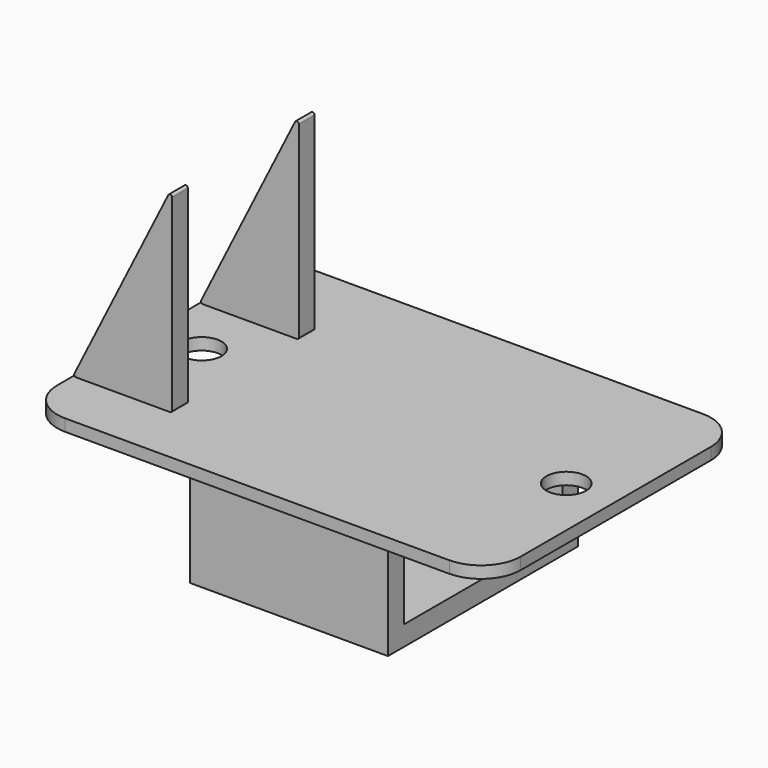
from build123d import *

# Parameters (mm, degrees)
F0_R     = 5
F1_DEPTH = 3
F3_DEPTH = 50
F5_R     = 5
F5_R_2   = 2.5
F6_DEPTH = 25
F8_DEPTH = 5


with BuildPart() as f1:
    # F0 (on Top) → F1 (new body)
    with BuildSketch(Plane.XY):
        with BuildLine():
            ThreePointArc((0, 10), (2.928932, 2.928932), (10, 0))
            Line((10, 0), (107, 0))
            ThreePointArc((107, 0), (114.071068, 2.928932), (117, 10))
            Line((117, 10), (117, 70))
            ThreePointArc((117, 70), (114.071068, 77.071068), (107, 80))
            Line((107, 80), (10, 80))
            ThreePointArc((10, 80), (2.928932, 77.071068), (0, 70))
            Line((0, 70), (0, 10))
        make_face()
        with Locations((12.5, 40)):
            Circle(F0_R, mode=Mode.SUBTRACT)
        with Locations((104.5, 40)):
            Circle(F0_R, mode=Mode.SUBTRACT)
    extrude(amount=F1_DEPTH)


with BuildPart() as f3:
    # F2 (on Right) → F3 (new body)
    with BuildSketch(Plane.YZ):
        Polygon((15, 0), (10, 0), (10, -30), (70, -30), (70, 0), (65, 0), (65, -25), (15, -25), align=None)
    extrude(amount=F3_DEPTH)


with BuildPart() as f3_1:
    # F4: moved
    add(f3.part.moved(Location((33.5, 0, 0))))

    # F5 (on face) → F6 (cut)
    with BuildSketch(Plane(origin=(0, 0, -30), x_dir=(1, 0, 0), z_dir=(0, 0, -1))):
        with Locations((58.5, -40)):
            Circle(F5_R)
        with Locations((46, -57.5)):
            Circle(F5_R_2)
        with Locations((71, -22.5)):
            Circle(F5_R_2)
    extrude(amount=-F6_DEPTH, mode=Mode.SUBTRACT)


with BuildPart() as f8:
    # F7 (on Front) → F8 (new body)
    with BuildSketch(Plane.XZ):
        with BuildLine():
            Line((25, 3.5), (25, 50.881966))
            ThreePointArc((25, 50.881966), (24.614876, 51.368591), (24.052786, 51.105573))
            Line((24.052786, 51.105573), (0.361803, 3.723607))
            ThreePointArc((0.361803, 3.723607), (0.383692, 3.237134), (0.809017, 3))
            Line((0.809017, 3), (24.5, 3))
            ThreePointArc((24.5, 3), (24.853553, 3.146447), (25, 3.5))
        make_face()
    extrude(amount=F8_DEPTH)


with BuildPart() as f8_1:
    # F9: moved
    add(f8.part.moved(Location((0, 20, 0))))


with BuildPart() as f10_1:
    # F10: copy of F8
    add(f8_1.part.moved(Location((0, 40, 0))))


solid = Compound([f1.part, f3_1.part, f8_1.part, f10_1.part])
